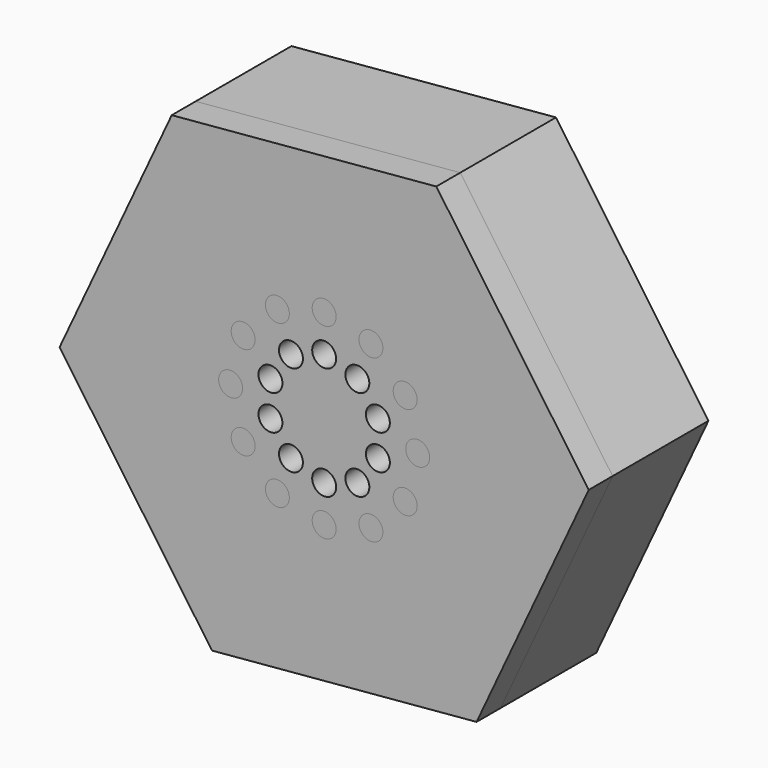
from build123d import *

# Parameters (mm, degrees)
F1_DEPTH = 25
F2_T     = -2.5
F3_R     = 2
F4_DEPTH = 5
F5_SIZE  = 1
F6_R     = 1.999320399
F7_DEPTH = 25


with BuildPart() as f1:
    # F0 (on Front) → F1 (new body)
    with BuildSketch(Plane.XZ):
        Polygon((44.2129522182, 3.8843227538), (18.7425539278, 40.2317011741), (-25.4703982904, 36.3473784203), (-44.2129522182, -3.8843227538), (-18.7425539278, -40.2317011741), (25.4703982904, -36.3473784203), align=None)
    extrude(amount=F1_DEPTH)

    # F2
    f2_openings = [f1.faces().sort_by_distance(p)[0] for p in [
        (0, 0, 0),
    ]]
    offset(amount=F2_T, openings=f2_openings)

    # F5
    f5_edges = [f1.edges().sort_by_distance(p)[0] for p in [
        (-29.430394, 0, -20.623327),
        (-32.575522, 0, 15.175806),
        (3.145128, 0, -35.799132),
        (-3.145128, 0, 35.799132),
        (29.430394, 0, 20.623327),
        (32.575522, 0, -15.175806),
    ]]
    chamfer(f5_edges, length=F5_SIZE)


with BuildPart() as f4:
    # F3 (on face) → F4 (new body)
    with BuildSketch(Plane.XZ.offset(25)):
        Polygon((25.4703982904, -36.3473784203), (44.2129522182, 3.8843227538), (18.7425539278, 40.2317011741), (-25.4703982904, 36.3473784203), (-44.2129522182, -3.8843227538), (-18.7425539278, -40.2317011741), align=None)
        with Locations((-7.8154700959, -13.5367913226)):
            Circle(F3_R, mode=Mode.SUBTRACT)
        with Locations((-13.5367913058, -7.8154701251)):
            Circle(F3_R, mode=Mode.SUBTRACT)
        with Locations((-15.6309402191, -2.02e-08)):
            Circle(F3_R, mode=Mode.SUBTRACT)
        with Locations((1.35e-08, -15.6309402191)):
            Circle(F3_R, mode=Mode.SUBTRACT)
        with Locations((7.8154701193, -13.5367913091)):
            Circle(F3_R, mode=Mode.SUBTRACT)
        with Locations((13.5367913192, -7.8154701017)):
            Circle(F3_R, mode=Mode.SUBTRACT)
        with Locations((-13.536791326, 7.8154700901)):
            Circle(F3_R, mode=Mode.SUBTRACT)
        with Locations((-7.8154701309, 13.5367913024)):
            Circle(F3_R, mode=Mode.SUBTRACT)
        with Locations((15.6309402191, 6.7e-09)):
            Circle(F3_R, mode=Mode.SUBTRACT)
        with Locations((13.5367913125, 7.8154701134)):
            Circle(F3_R, mode=Mode.SUBTRACT)
        with Locations((7.8154701076, 13.5367913159)):
            Circle(F3_R, mode=Mode.SUBTRACT)
        with Locations((0, 15.6309402191)):
            Circle(F3_R, mode=Mode.SUBTRACT)
    extrude(amount=-F4_DEPTH)


with BuildPart() as f7_tool:
    # F6 (on face) → F7 (new body)
    with BuildSketch(Plane.XZ.offset(25)):
        with Locations((0, -9.4392430037)):
            Circle(F6_R)
        with Locations((5.5482478304, -7.636508004)):
            Circle(F6_R)
        with Locations((8.9772535676, -2.9168865022)):
            Circle(F6_R)
        with Locations((8.9772535676, 2.9168865022)):
            Circle(F6_R)
        with Locations((5.5482478304, 7.636508004)):
            Circle(F6_R)
        with Locations((0, 9.4392430037)):
            Circle(F6_R)
        with Locations((-5.5482478304, 7.636508004)):
            Circle(F6_R)
        with Locations((-8.9772535676, 2.9168865022)):
            Circle(F6_R)
        with Locations((-8.9772535676, -2.9168865022)):
            Circle(F6_R)
        with Locations((-5.5482478304, -7.636508004)):
            Circle(F6_R)
    extrude(amount=-F7_DEPTH)


with BuildPart() as f1_1:
    add(f1.part)

    # F7: cut by f7_tool
    add(f7_tool.part, mode=Mode.SUBTRACT)


with BuildPart() as f4_1:
    add(f4.part)

    # F7: cut by f7_tool
    add(f7_tool.part, mode=Mode.SUBTRACT)


solid = Compound([f1_1.part, f4_1.part])
